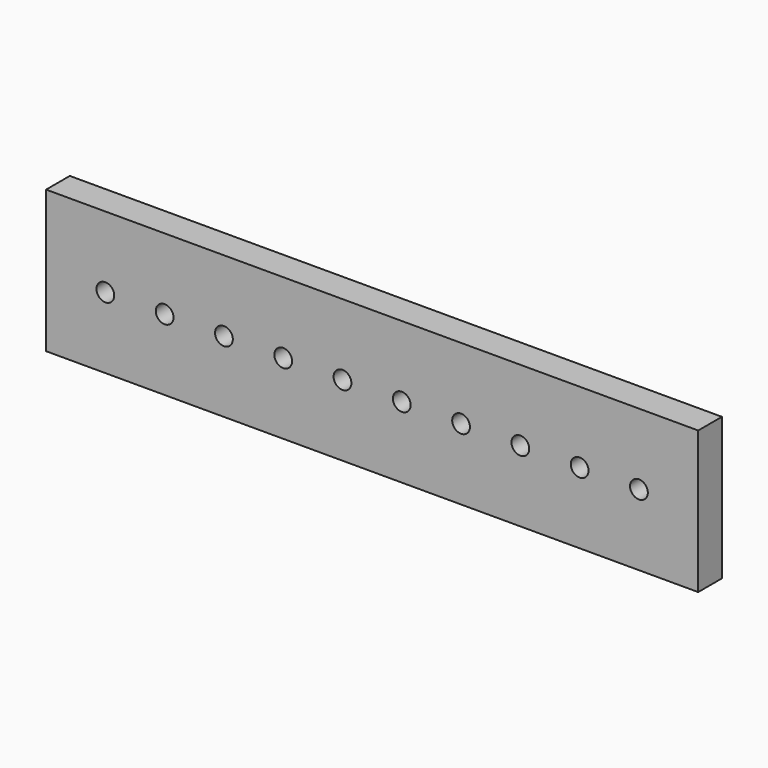
from build123d import *

# Parameters (mm, degrees)
F0_W     = 550
F0_H     = 120
F0_R     = 7.5
F1_DEPTH = 25


with BuildPart() as f1:
    # F0 (on Front) → F1 (new body)
    with BuildSketch(Plane.XZ):
        with Locations((175, 0)):
            Rectangle(F0_W, F0_H)
        with Locations((-50, 0)):
            Circle(F0_R, mode=Mode.SUBTRACT)
        Circle(F0_R, mode=Mode.SUBTRACT)
        with Locations((50, 0)):
            Circle(F0_R, mode=Mode.SUBTRACT)
        with Locations((100, 0)):
            Circle(F0_R, mode=Mode.SUBTRACT)
        with Locations((150, 0)):
            Circle(F0_R, mode=Mode.SUBTRACT)
        with Locations((200, 0)):
            Circle(F0_R, mode=Mode.SUBTRACT)
        with Locations((250, 0)):
            Circle(F0_R, mode=Mode.SUBTRACT)
        with Locations((300, 0)):
            Circle(F0_R, mode=Mode.SUBTRACT)
        with Locations((350, 0)):
            Circle(F0_R, mode=Mode.SUBTRACT)
        with Locations((400, 0)):
            Circle(F0_R, mode=Mode.SUBTRACT)
    extrude(amount=F1_DEPTH)


solid = f1.part
